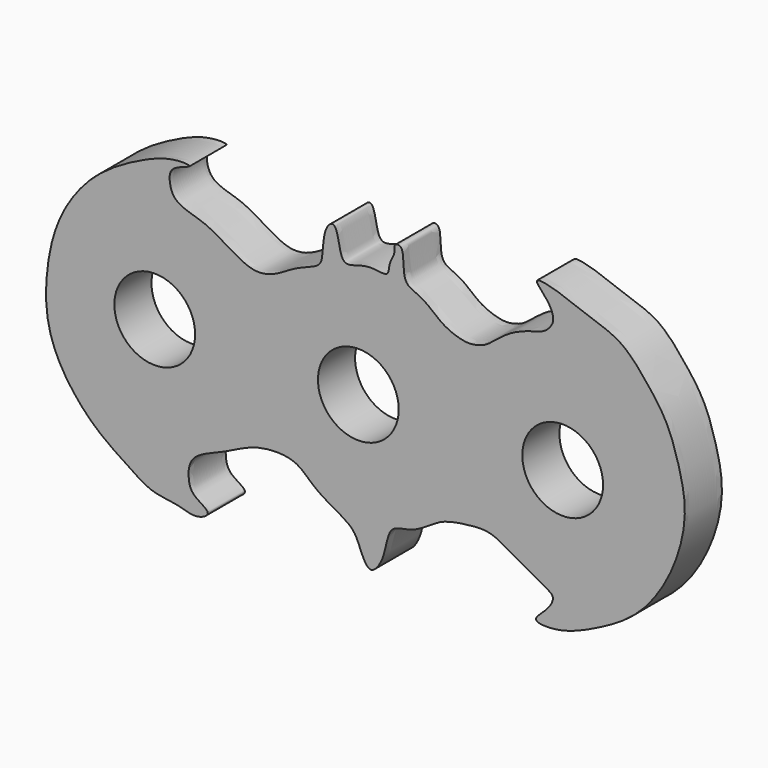
from build123d import *

# Parameters (mm, degrees)
F0_R     = 11.049
F1_DEPTH = 12.7


with BuildPart() as f1:
    # F0 (on Front) → F1 (new body)
    with BuildSketch(Plane.XZ):
        with BuildLine():
            add(Edge.make_bspline(
                [(79.9034538631, 22.2570084794), (77.7302121208, 25.0843202929), (72.551845996, 31.6145172398), (63.1180884636, 34.1145927598), (55.1729400057, 37.6664529501), (46.8917599113, 39.3859165289), (51.5699357356, 35.0417623133), (53.0942452108, 32.214599833), (53.6443446912, 29.6700694535), (51.2275665944, 26.6034370661), (47.7468002274, 25.8836212249), (42.6343345712, 24.1052259954), (38.6589596172, 21.3702089215), (35.2831532012, 18.3202040925), (32.3618011809, 17.3801962765), (29.3733581257, 16.9472559932), (23.5242073777, 18.7824380276), (19.8225269976, 22.3180536343), (16.4976787015, 24.4418156718), (12.8318580442, 25.6103372447), (12.246294285, 29.7943610358), (12.3466913011, 34.8123312709), (9.5452595889, 34.6264359467), (10.2969001279, 32.2100282622), (8.2267231021, 29.5994943666), (8.5371670092, 25.4431550221), (2.391209973, 27.6949901854), (-4.2426374121, 23.8247231313), (-5.278361062, 29.8863006892), (-6.3467625647, 34.5914273485), (-9.1651881211, 32.6835919154), (-9.7987968989, 26.8198112231), (-9.9217897156, 22.1633776512), (-16.8615761187, 20.5310277548), (-22.5509831613, 16.1876948015), (-29.1239288707, 14.9368997095), (-35.7826049218, 19.1977626486), (-41.7931096832, 22.6920933609), (-46.9669216479, 23.9281639395), (-50.7884483049, 25.802208969), (-51.8838179715, 29.9821359328), (-51.3135630651, 33.5609730483), (-43.8858217155, 35.146637086), (-51.5815789824, 35.6987778697), (-61.9942262932, 31.17853474), (-73.2137431879, 24.2143120127), (-81.7736461859, 12.5547608665), (-85.2038129892, 0.1786633271), (-85.9798228443, -13.3630031664), (-81.9421461413, -25.2332728578), (-72.4993831967, -36.7683480239), (-62.3636458589, -42.9870208977), (-56.6151232295, -47.1163256071), (-49.0359726905, -47.4094447623), (-44.6216280845, -49.4915002679), (-39.3363238845, -46.7947978825), (-45.5882777903, -44.2506350122), (-46.6728044091, -40.2212655365), (-46.1830148892, -34.009166166), (-36.2069285729, -30.9398737893), (-28.7204387693, -26.1343692834), (-16.8452794514, -25.5934877771), (-12.0905237344, -32.0721705679), (-2.327797805, -36.5437696141), (-0.0323502419, -40.1178212519), (2.8507118762, -48.5487294881), (7.6661969098, -41.7820845591), (7.9351804265, -33.2180717075), (15.1764430269, -33.641001063), (21.7827860148, -28.0237626662), (28.0410004689, -26.8451631366), (35.929837265, -25.84009233), (41.451842164, -29.5520757919), (51.0917887386, -34.6207207545), (53.9657670848, -36.4170354043), (51.7425445973, -40.2760925597), (46.5386694002, -44.0773895959), (55.3400007185, -44.5361064397), (65.1195332826, -40.2581540749), (77.2220916922, -33.5820555125), (86.2975978021, -20.3222616509), (90.1772689956, -5.7828614936), (88.3281420312, 4.7704061679), (84.8887366365, 15.6027757737), (81.7566977147, 19.8460027762), (79.9034538631, 22.2570084794)],
                knots=[0, 0, 0, 0, 0.0162427953, 0.0310247651, 0.045987462, 0.0569603747, 0.0663916146, 0.0755375916, 0.0828051652, 0.0916611706, 0.1007006894, 0.1117717947, 0.1224519544, 0.1325681219, 0.140729249, 0.1489217453, 0.1605877185, 0.171521481, 0.1810201387, 0.1898011191, 0.1994938569, 0.209604499, 0.2153901031, 0.2219705141, 0.230759928, 0.2388247086, 0.2497584708, 0.2616210494, 0.2720734803, 0.2816835615, 0.2884001269, 0.300101938, 0.309794678, 0.3217653549, 0.3347678629, 0.3465995047, 0.3598423175, 0.3725931643, 0.3835919468, 0.393090613, 0.4026158381, 0.4114052477, 0.4216461063, 0.4311845451, 0.4479133444, 0.4654169673, 0.4833431613, 0.5004887472, 0.5178799459, 0.5346959794, 0.5531301049, 0.5695835414, 0.5821684863, 0.5950238105, 0.6058193969, 0.6146671589, 0.6249503338, 0.6347419885, 0.6456273011, 0.6603415569, 0.6751482396, 0.6906109179, 0.7040156627, 0.7192068588, 0.7296708675, 0.7415933624, 0.7527642244, 0.7661260381, 0.7775620617, 0.7914288896, 0.8036389057, 0.8165811867, 0.8291747317, 0.8450303789, 0.8527211973, 0.8623054087, 0.872151423, 0.883334558, 0.8995746861, 0.9172567837, 0.9363468013, 0.9546722732, 0.9703291879, 0.986148867, 1, 1, 1, 1], degree=3))
        make_face()
        with Locations((-55.7124998691, -5.0111086691)):
            Circle(F0_R, mode=Mode.SUBTRACT)
        with Locations((0, -5.0111086691)):
            Circle(F0_R, mode=Mode.SUBTRACT)
        with Locations((55.9047013521, -5.0111086691)):
            Circle(F0_R, mode=Mode.SUBTRACT)
    extrude(amount=F1_DEPTH)


solid = f1.part
